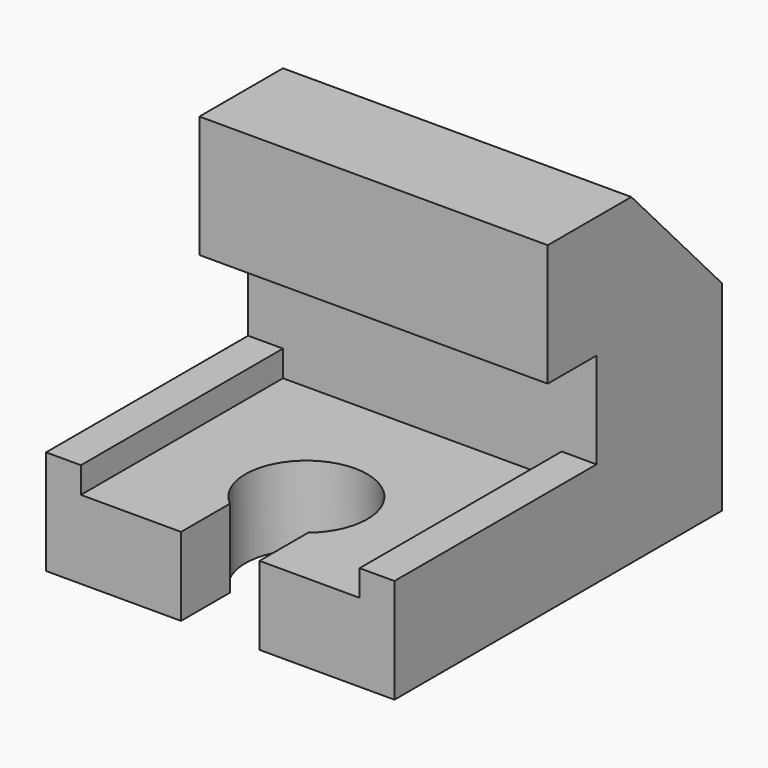
from build123d import *

# Parameters (mm, degrees)
PAD_DEPTH         = 20
POCKET_DEPTH      = 6.001
POCKET_DEPTH_BACK = -31.001


with BuildPart() as part:
    # AdditivePipe: sweep along a path in Sketch
    with BuildLine(Plane.XY) as additivepipe_path:
        Line((0, 0), (0, 47))
    # Sketch001 → AdditivePipe (sweep)
    with BuildSketch(Plane.XZ):
        Polygon((-20, 6), (-20, -6), (-16, -6), (-9, -6), (9, -6), (16, -6), (20, -6), (20, 6), (16, 6), (16, 3), (9, 3), (-9, 3), (-16, 3), (-16, 6), align=None)
    sweep(path=additivepipe_path.line)

    # Sketch002 → Pad (new body, symmetric)
    with BuildSketch(Plane.YZ):
        Polygon((47, 6), (47, 17), (34, 31), (22, 31), (22, 17), (29, 17), (29, 3), (47, 3), align=None)
    extrude(amount=PAD_DEPTH, both=True)

    # Sketch003 → Pocket (cut, two sides)
    with BuildSketch(Plane.XY) as pocket_sk:
        with BuildLine():
            Line((-4.5, 0), (4.5, 0))
            Line((4.5, 0), (4.5, 7))
            ThreePointArc((4.5, 7), (0, 19.361903), (-4.5, 7))
            Line((-4.5, 0), (-4.5, 7))
        make_face()
    extrude(amount=-POCKET_DEPTH, mode=Mode.SUBTRACT)
    extrude(pocket_sk.sketch, amount=-POCKET_DEPTH_BACK, mode=Mode.SUBTRACT)


solid = part.part
